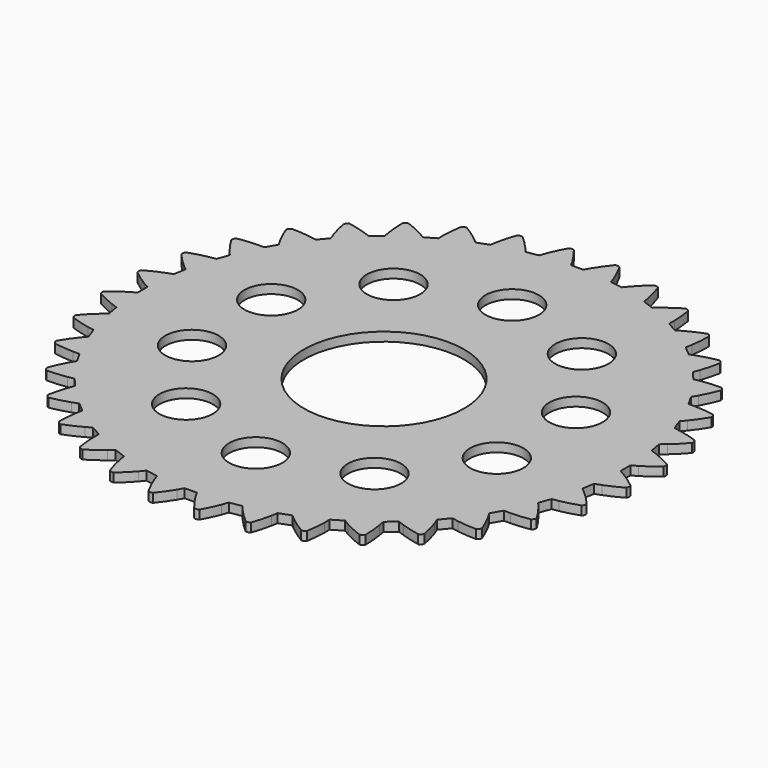
from build123d import *

# Parameters (mm, degrees)
CYLINDER_R         = 4.5
CYLINDER_DEPTH     = 10
EXTRUDE_DEPTH      = 0.5
SKETCH_R           = 1.5
POCKET_DEPTH       = 5
POLARPATTERN_COUNT = 10


with BuildPart() as cylinder:
    # Cylinder → Cylinder (new body)
    with BuildSketch(Plane.XY):
        Circle(CYLINDER_R)
    extrude(amount=CYLINDER_DEPTH)


with BuildPart() as body:
    # InvoluteGear → Extrude (new body)
    with BuildSketch(Plane.XY):
        with BuildLine():
            add(Edge.make_bspline(
                [(14.77486, -1.15665), (14.460427, -0.898823), (14.160679, -0.690927), (13.884618, -0.524332)],
                knots=[0, 0, 0, 0, 1, 1, 1, 1], degree=3))
            add(Edge.make_bspline(
                [(13.884618, -0.524332), (13.774984, -0.458178), (13.669144, -0.398588), (13.567616, -0.344982)],
                knots=[0, 0, 0, 0, 1, 1, 1, 1], degree=3))
            ThreePointArc((13.567616, -0.344982), (13.56323, -1e-06), (13.567615, 0.344981))
            add(Edge.make_bspline(
                [(13.567615, 0.344981), (13.669144, 0.398588), (13.774984, 0.458178), (13.884618, 0.524332)],
                knots=[0, 0, 0, 0, 1, 1, 1, 1], degree=3))
            add(Edge.make_bspline(
                [(13.884618, 0.524332), (14.160679, 0.690927), (14.460427, 0.898823), (14.77486, 1.15665)],
                knots=[0, 0, 0, 0, 1, 1, 1, 1], degree=3))
            ThreePointArc((14.77486, 1.15665), (14.796187, 1.294499), (14.751247, 1.426549))
            add(Edge.make_bspline(
                [(14.751247, 1.426549), (14.39682, 1.625859), (14.065525, 1.778546), (13.764729, 1.894672)],
                knots=[0, 0, 0, 0, 1, 1, 1, 1], degree=3))
            add(Edge.make_bspline(
                [(13.764729, 1.894672), (13.645273, 1.940783), (13.530693, 1.981089), (13.421399, 2.016251)],
                knots=[0, 0, 0, 0, 1, 1, 1, 1], degree=3))
            ThreePointArc((13.421399, 2.016251), (13.357175, 2.35523), (13.301587, 2.695732))
            add(Edge.make_bspline(
                [(13.301587, 2.695732), (13.392265, 2.766155), (13.486149, 2.843218), (13.58263, 2.927405)],
                knots=[0, 0, 0, 0, 1, 1, 1, 1], degree=3))
            add(Edge.make_bspline(
                [(13.58263, 2.927405), (13.825568, 3.139406), (14.084662, 3.396195), (14.349546, 3.704706)],
                knots=[0, 0, 0, 0, 1, 1, 1, 1], degree=3))
            ThreePointArc((14.349546, 3.704706), (14.346612, 3.844163), (14.279424, 3.966404))
            add(Edge.make_bspline(
                [(14.279424, 3.966404), (13.895773, 4.10114), (13.542997, 4.193979), (13.226605, 4.256108)],
                knots=[0, 0, 0, 0, 1, 1, 1, 1], degree=3))
            add(Edge.make_bspline(
                [(13.226605, 4.256108), (13.100957, 4.280775), (12.981119, 4.300572), (12.86738, 4.316221)],
                knots=[0, 0, 0, 0, 1, 1, 1, 1], degree=3))
            ThreePointArc((12.86738, 4.316221), (12.745268, 4.638897), (12.631397, 4.964574))
            add(Edge.make_bspline(
                [(12.631397, 4.964574), (12.708469, 5.049673), (12.787545, 5.141869), (12.867941, 5.24153)],
                knots=[0, 0, 0, 0, 1, 1, 1, 1], degree=3))
            add(Edge.make_bspline(
                [(12.867941, 5.24153), (13.070375, 5.492496), (13.280941, 5.790375), (13.488229, 6.140195)],
                knots=[0, 0, 0, 0, 1, 1, 1, 1], degree=3))
            ThreePointArc((13.488229, 6.140195), (13.461123, 6.277025), (13.373729, 6.385741))
            add(Edge.make_bspline(
                [(13.373729, 6.385741), (12.972509, 6.45181), (12.608971, 6.481979), (12.286598, 6.488224)],
                knots=[0, 0, 0, 0, 1, 1, 1, 1], degree=3))
            add(Edge.make_bspline(
                [(12.286598, 6.488224), (12.158575, 6.490698), (12.03712, 6.489385), (11.922392, 6.485045)],
                knots=[0, 0, 0, 0, 1, 1, 1, 1], degree=3))
            ThreePointArc((11.922392, 6.485045), (11.746102, 6.781615), (11.577409, 7.08257))
            add(Edge.make_bspline(
                [(11.577409, 7.08257), (11.638532, 7.17976), (11.700397, 7.284286), (11.762266, 7.396394)],
                knots=[0, 0, 0, 0, 1, 1, 1, 1], degree=3))
            add(Edge.make_bspline(
                [(11.762266, 7.396394), (11.918044, 7.6787), (12.073686, 8.008617), (12.217079, 8.389118)],
                knots=[0, 0, 0, 0, 1, 1, 1, 1], degree=3))
            ThreePointArc((12.217079, 8.389118), (12.166624, 8.519162), (12.06168, 8.611051))
            add(Edge.make_bspline(
                [(12.06168, 8.611051), (11.655082, 8.606445), (11.291829, 8.573028), (10.973269, 8.523198)],
                knots=[0, 0, 0, 0, 1, 1, 1, 1], degree=3))
            add(Edge.make_bspline(
                [(10.973269, 8.523198), (10.846761, 8.503404), (10.72738, 8.48102), (10.615147, 8.456824)],
                knots=[0, 0, 0, 0, 1, 1, 1, 1], degree=3))
            ThreePointArc((10.615147, 8.456824), (10.390038, 8.718276), (10.171646, 8.985365))
            add(Edge.make_bspline(
                [(10.171646, 8.985365), (10.214964, 9.091693), (10.257739, 9.205374), (10.2992, 9.326522)],
                knots=[0, 0, 0, 0, 1, 1, 1, 1], degree=3))
            add(Edge.make_bspline(
                [(10.2992, 9.326522), (10.40359, 9.63159), (10.499578, 9.983522), (10.574719, 10.383142)],
                knots=[0, 0, 0, 0, 1, 1, 1, 1], degree=3))
            ThreePointArc((10.574719, 10.383142), (10.502449, 10.502449), (10.383142, 10.574719))
            add(Edge.make_bspline(
                [(10.383142, 10.574719), (9.983522, 10.499578), (9.63159, 10.40359), (9.326522, 10.2992)],
                knots=[0, 0, 0, 0, 1, 1, 1, 1], degree=3))
            add(Edge.make_bspline(
                [(9.326522, 10.2992), (9.205374, 10.257739), (9.091693, 10.214964), (8.985367, 10.171647)],
                knots=[0, 0, 0, 0, 1, 1, 1, 1], degree=3))
            ThreePointArc((8.985367, 10.171647), (8.718277, 10.390037), (8.456824, 10.615145))
            add(Edge.make_bspline(
                [(8.456824, 10.615145), (8.48102, 10.72738), (8.503404, 10.846761), (8.523198, 10.973269)],
                knots=[0, 0, 0, 0, 1, 1, 1, 1], degree=3))
            add(Edge.make_bspline(
                [(8.523198, 10.973269), (8.573028, 11.291829), (8.606445, 11.655082), (8.611051, 12.06168)],
                knots=[0, 0, 0, 0, 1, 1, 1, 1], degree=3))
            ThreePointArc((8.611051, 12.06168), (8.519162, 12.166624), (8.389118, 12.217079))
            add(Edge.make_bspline(
                [(8.389118, 12.217079), (8.008617, 12.073686), (7.6787, 11.918044), (7.396394, 11.762266)],
                knots=[0, 0, 0, 0, 1, 1, 1, 1], degree=3))
            add(Edge.make_bspline(
                [(7.396394, 11.762266), (7.284286, 11.700397), (7.17976, 11.638532), (7.082572, 11.577409)],
                knots=[0, 0, 0, 0, 1, 1, 1, 1], degree=3))
            ThreePointArc((7.082572, 11.577409), (6.781616, 11.746102), (6.485045, 11.92239))
            add(Edge.make_bspline(
                [(6.485045, 11.92239), (6.489385, 12.03712), (6.490698, 12.158575), (6.488224, 12.286598)],
                knots=[0, 0, 0, 0, 1, 1, 1, 1], degree=3))
            add(Edge.make_bspline(
                [(6.488224, 12.286598), (6.481979, 12.608971), (6.45181, 12.972509), (6.385741, 13.373729)],
                knots=[0, 0, 0, 0, 1, 1, 1, 1], degree=3))
            ThreePointArc((6.385741, 13.373729), (6.277025, 13.461123), (6.140195, 13.488229))
            add(Edge.make_bspline(
                [(6.140195, 13.488229), (5.790375, 13.280941), (5.492496, 13.070375), (5.24153, 12.867941)],
                knots=[0, 0, 0, 0, 1, 1, 1, 1], degree=3))
            add(Edge.make_bspline(
                [(5.24153, 12.867941), (5.141869, 12.787545), (5.049673, 12.708469), (4.964575, 12.631398)],
                knots=[0, 0, 0, 0, 1, 1, 1, 1], degree=3))
            ThreePointArc((4.964575, 12.631398), (4.638899, 12.745267), (4.316221, 12.867378))
            add(Edge.make_bspline(
                [(4.316221, 12.867378), (4.300572, 12.981119), (4.280775, 13.100957), (4.256108, 13.226605)],
                knots=[0, 0, 0, 0, 1, 1, 1, 1], degree=3))
            add(Edge.make_bspline(
                [(4.256108, 13.226605), (4.193979, 13.542997), (4.10114, 13.895773), (3.966404, 14.279424)],
                knots=[0, 0, 0, 0, 1, 1, 1, 1], degree=3))
            ThreePointArc((3.966404, 14.279424), (3.844163, 14.346612), (3.704706, 14.349546))
            add(Edge.make_bspline(
                [(3.704706, 14.349546), (3.396195, 14.084662), (3.139406, 13.825568), (2.927405, 13.58263)],
                knots=[0, 0, 0, 0, 1, 1, 1, 1], degree=3))
            add(Edge.make_bspline(
                [(2.927405, 13.58263), (2.843218, 13.486149), (2.766155, 13.392265), (2.695733, 13.301588)],
                knots=[0, 0, 0, 0, 1, 1, 1, 1], degree=3))
            ThreePointArc((2.695733, 13.301588), (2.355231, 13.357174), (2.016252, 13.421398))
            add(Edge.make_bspline(
                [(2.016252, 13.421398), (1.981089, 13.530693), (1.940783, 13.645273), (1.894672, 13.764729)],
                knots=[0, 0, 0, 0, 1, 1, 1, 1], degree=3))
            add(Edge.make_bspline(
                [(1.894672, 13.764729), (1.778546, 14.065525), (1.625859, 14.39682), (1.426549, 14.751247)],
                knots=[0, 0, 0, 0, 1, 1, 1, 1], degree=3))
            ThreePointArc((1.426549, 14.751247), (1.294499, 14.796187), (1.15665, 14.77486))
            add(Edge.make_bspline(
                [(1.15665, 14.77486), (0.898823, 14.460427), (0.690927, 14.160679), (0.524332, 13.884618)],
                knots=[0, 0, 0, 0, 1, 1, 1, 1], degree=3))
            add(Edge.make_bspline(
                [(0.524332, 13.884618), (0.458178, 13.774984), (0.398588, 13.669144), (0.344982, 13.567616)],
                knots=[0, 0, 0, 0, 1, 1, 1, 1], degree=3))
            ThreePointArc((0.344982, 13.567616), (1e-06, 13.56323), (-0.344981, 13.567615))
            add(Edge.make_bspline(
                [(-0.344981, 13.567615), (-0.398588, 13.669144), (-0.458178, 13.774984), (-0.524332, 13.884618)],
                knots=[0, 0, 0, 0, 1, 1, 1, 1], degree=3))
            add(Edge.make_bspline(
                [(-0.524332, 13.884618), (-0.690927, 14.160679), (-0.898823, 14.460427), (-1.15665, 14.77486)],
                knots=[0, 0, 0, 0, 1, 1, 1, 1], degree=3))
            ThreePointArc((-1.15665, 14.77486), (-1.294499, 14.796187), (-1.426549, 14.751247))
            add(Edge.make_bspline(
                [(-1.426549, 14.751247), (-1.625859, 14.39682), (-1.778546, 14.065525), (-1.894672, 13.764729)],
                knots=[0, 0, 0, 0, 1, 1, 1, 1], degree=3))
            add(Edge.make_bspline(
                [(-1.894672, 13.764729), (-1.940783, 13.645273), (-1.981089, 13.530693), (-2.016251, 13.421399)],
                knots=[0, 0, 0, 0, 1, 1, 1, 1], degree=3))
            ThreePointArc((-2.016251, 13.421399), (-2.35523, 13.357175), (-2.695732, 13.301587))
            add(Edge.make_bspline(
                [(-2.695732, 13.301587), (-2.766155, 13.392265), (-2.843218, 13.486149), (-2.927405, 13.58263)],
                knots=[0, 0, 0, 0, 1, 1, 1, 1], degree=3))
            add(Edge.make_bspline(
                [(-2.927405, 13.58263), (-3.139406, 13.825568), (-3.396195, 14.084662), (-3.704706, 14.349546)],
                knots=[0, 0, 0, 0, 1, 1, 1, 1], degree=3))
            ThreePointArc((-3.704706, 14.349546), (-3.844163, 14.346612), (-3.966404, 14.279424))
            add(Edge.make_bspline(
                [(-3.966404, 14.279424), (-4.10114, 13.895773), (-4.193979, 13.542997), (-4.256108, 13.226605)],
                knots=[0, 0, 0, 0, 1, 1, 1, 1], degree=3))
            add(Edge.make_bspline(
                [(-4.256108, 13.226605), (-4.280775, 13.100957), (-4.300572, 12.981119), (-4.316221, 12.86738)],
                knots=[0, 0, 0, 0, 1, 1, 1, 1], degree=3))
            ThreePointArc((-4.316221, 12.86738), (-4.638897, 12.745268), (-4.964574, 12.631397))
            add(Edge.make_bspline(
                [(-4.964574, 12.631397), (-5.049673, 12.708469), (-5.141869, 12.787545), (-5.24153, 12.867941)],
                knots=[0, 0, 0, 0, 1, 1, 1, 1], degree=3))
            add(Edge.make_bspline(
                [(-5.24153, 12.867941), (-5.492496, 13.070375), (-5.790375, 13.280941), (-6.140195, 13.488229)],
                knots=[0, 0, 0, 0, 1, 1, 1, 1], degree=3))
            ThreePointArc((-6.140195, 13.488229), (-6.277025, 13.461123), (-6.385741, 13.373729))
            add(Edge.make_bspline(
                [(-6.385741, 13.373729), (-6.45181, 12.972509), (-6.481979, 12.608971), (-6.488224, 12.286598)],
                knots=[0, 0, 0, 0, 1, 1, 1, 1], degree=3))
            add(Edge.make_bspline(
                [(-6.488224, 12.286598), (-6.490698, 12.158575), (-6.489385, 12.03712), (-6.485045, 11.922392)],
                knots=[0, 0, 0, 0, 1, 1, 1, 1], degree=3))
            ThreePointArc((-6.485045, 11.922392), (-6.781615, 11.746102), (-7.08257, 11.577409))
            add(Edge.make_bspline(
                [(-7.08257, 11.577409), (-7.17976, 11.638532), (-7.284286, 11.700397), (-7.396394, 11.762266)],
                knots=[0, 0, 0, 0, 1, 1, 1, 1], degree=3))
            add(Edge.make_bspline(
                [(-7.396394, 11.762266), (-7.6787, 11.918044), (-8.008617, 12.073686), (-8.389118, 12.217079)],
                knots=[0, 0, 0, 0, 1, 1, 1, 1], degree=3))
            ThreePointArc((-8.389118, 12.217079), (-8.519162, 12.166624), (-8.611051, 12.06168))
            add(Edge.make_bspline(
                [(-8.611051, 12.06168), (-8.606445, 11.655082), (-8.573028, 11.291829), (-8.523198, 10.973269)],
                knots=[0, 0, 0, 0, 1, 1, 1, 1], degree=3))
            add(Edge.make_bspline(
                [(-8.523198, 10.973269), (-8.503404, 10.846761), (-8.48102, 10.72738), (-8.456824, 10.615147)],
                knots=[0, 0, 0, 0, 1, 1, 1, 1], degree=3))
            ThreePointArc((-8.456824, 10.615147), (-8.718276, 10.390038), (-8.985365, 10.171646))
            add(Edge.make_bspline(
                [(-8.985365, 10.171646), (-9.091693, 10.214964), (-9.205374, 10.257739), (-9.326522, 10.2992)],
                knots=[0, 0, 0, 0, 1, 1, 1, 1], degree=3))
            add(Edge.make_bspline(
                [(-9.326522, 10.2992), (-9.63159, 10.40359), (-9.983522, 10.499578), (-10.383142, 10.574719)],
                knots=[0, 0, 0, 0, 1, 1, 1, 1], degree=3))
            ThreePointArc((-10.383142, 10.574719), (-10.502449, 10.502449), (-10.574719, 10.383142))
            add(Edge.make_bspline(
                [(-10.574719, 10.383142), (-10.499578, 9.983522), (-10.40359, 9.63159), (-10.2992, 9.326522)],
                knots=[0, 0, 0, 0, 1, 1, 1, 1], degree=3))
            add(Edge.make_bspline(
                [(-10.2992, 9.326522), (-10.257739, 9.205374), (-10.214964, 9.091693), (-10.171647, 8.985367)],
                knots=[0, 0, 0, 0, 1, 1, 1, 1], degree=3))
            ThreePointArc((-10.171647, 8.985367), (-10.390037, 8.718277), (-10.615145, 8.456824))
            add(Edge.make_bspline(
                [(-10.615145, 8.456824), (-10.72738, 8.48102), (-10.846761, 8.503404), (-10.973269, 8.523198)],
                knots=[0, 0, 0, 0, 1, 1, 1, 1], degree=3))
            add(Edge.make_bspline(
                [(-10.973269, 8.523198), (-11.291829, 8.573028), (-11.655082, 8.606445), (-12.06168, 8.611051)],
                knots=[0, 0, 0, 0, 1, 1, 1, 1], degree=3))
            ThreePointArc((-12.06168, 8.611051), (-12.166624, 8.519162), (-12.217079, 8.389118))
            add(Edge.make_bspline(
                [(-12.217079, 8.389118), (-12.073686, 8.008617), (-11.918044, 7.6787), (-11.762266, 7.396394)],
                knots=[0, 0, 0, 0, 1, 1, 1, 1], degree=3))
            add(Edge.make_bspline(
                [(-11.762266, 7.396394), (-11.700397, 7.284286), (-11.638532, 7.17976), (-11.577409, 7.082572)],
                knots=[0, 0, 0, 0, 1, 1, 1, 1], degree=3))
            ThreePointArc((-11.577409, 7.082572), (-11.746102, 6.781616), (-11.92239, 6.485045))
            add(Edge.make_bspline(
                [(-11.92239, 6.485045), (-12.03712, 6.489385), (-12.158575, 6.490698), (-12.286598, 6.488224)],
                knots=[0, 0, 0, 0, 1, 1, 1, 1], degree=3))
            add(Edge.make_bspline(
                [(-12.286598, 6.488224), (-12.608971, 6.481979), (-12.972509, 6.45181), (-13.373729, 6.385741)],
                knots=[0, 0, 0, 0, 1, 1, 1, 1], degree=3))
            ThreePointArc((-13.373729, 6.385741), (-13.461123, 6.277025), (-13.488229, 6.140195))
            add(Edge.make_bspline(
                [(-13.488229, 6.140195), (-13.280941, 5.790375), (-13.070375, 5.492496), (-12.867941, 5.24153)],
                knots=[0, 0, 0, 0, 1, 1, 1, 1], degree=3))
            add(Edge.make_bspline(
                [(-12.867941, 5.24153), (-12.787545, 5.141869), (-12.708469, 5.049673), (-12.631398, 4.964575)],
                knots=[0, 0, 0, 0, 1, 1, 1, 1], degree=3))
            ThreePointArc((-12.631398, 4.964575), (-12.745267, 4.638899), (-12.867378, 4.316221))
            add(Edge.make_bspline(
                [(-12.867378, 4.316221), (-12.981119, 4.300572), (-13.100957, 4.280775), (-13.226605, 4.256108)],
                knots=[0, 0, 0, 0, 1, 1, 1, 1], degree=3))
            add(Edge.make_bspline(
                [(-13.226605, 4.256108), (-13.542997, 4.193979), (-13.895773, 4.10114), (-14.279424, 3.966404)],
                knots=[0, 0, 0, 0, 1, 1, 1, 1], degree=3))
            ThreePointArc((-14.279424, 3.966404), (-14.346612, 3.844163), (-14.349546, 3.704706))
            add(Edge.make_bspline(
                [(-14.349546, 3.704706), (-14.084662, 3.396195), (-13.825568, 3.139406), (-13.58263, 2.927405)],
                knots=[0, 0, 0, 0, 1, 1, 1, 1], degree=3))
            add(Edge.make_bspline(
                [(-13.58263, 2.927405), (-13.486149, 2.843218), (-13.392265, 2.766155), (-13.301588, 2.695733)],
                knots=[0, 0, 0, 0, 1, 1, 1, 1], degree=3))
            ThreePointArc((-13.301588, 2.695733), (-13.357174, 2.355231), (-13.421398, 2.016252))
            add(Edge.make_bspline(
                [(-13.421398, 2.016252), (-13.530693, 1.981089), (-13.645273, 1.940783), (-13.764729, 1.894672)],
                knots=[0, 0, 0, 0, 1, 1, 1, 1], degree=3))
            add(Edge.make_bspline(
                [(-13.764729, 1.894672), (-14.065525, 1.778546), (-14.39682, 1.625859), (-14.751247, 1.426549)],
                knots=[0, 0, 0, 0, 1, 1, 1, 1], degree=3))
            ThreePointArc((-14.751247, 1.426549), (-14.796187, 1.294499), (-14.77486, 1.15665))
            add(Edge.make_bspline(
                [(-14.77486, 1.15665), (-14.460427, 0.898823), (-14.160679, 0.690927), (-13.884618, 0.524332)],
                knots=[0, 0, 0, 0, 1, 1, 1, 1], degree=3))
            add(Edge.make_bspline(
                [(-13.884618, 0.524332), (-13.774984, 0.458178), (-13.669144, 0.398588), (-13.567616, 0.344982)],
                knots=[0, 0, 0, 0, 1, 1, 1, 1], degree=3))
            ThreePointArc((-13.567616, 0.344982), (-13.56323, 1e-06), (-13.567615, -0.344981))
            add(Edge.make_bspline(
                [(-13.567615, -0.344981), (-13.669144, -0.398588), (-13.774984, -0.458178), (-13.884618, -0.524332)],
                knots=[0, 0, 0, 0, 1, 1, 1, 1], degree=3))
            add(Edge.make_bspline(
                [(-13.884618, -0.524332), (-14.160679, -0.690927), (-14.460427, -0.898823), (-14.77486, -1.15665)],
                knots=[0, 0, 0, 0, 1, 1, 1, 1], degree=3))
            ThreePointArc((-14.77486, -1.15665), (-14.796187, -1.294499), (-14.751247, -1.426549))
            add(Edge.make_bspline(
                [(-14.751247, -1.426549), (-14.39682, -1.625859), (-14.065525, -1.778546), (-13.764729, -1.894672)],
                knots=[0, 0, 0, 0, 1, 1, 1, 1], degree=3))
            add(Edge.make_bspline(
                [(-13.764729, -1.894672), (-13.645273, -1.940783), (-13.530693, -1.981089), (-13.421399, -2.016251)],
                knots=[0, 0, 0, 0, 1, 1, 1, 1], degree=3))
            ThreePointArc((-13.421399, -2.016251), (-13.357175, -2.35523), (-13.301587, -2.695732))
            add(Edge.make_bspline(
                [(-13.301587, -2.695732), (-13.392265, -2.766155), (-13.486149, -2.843218), (-13.58263, -2.927405)],
                knots=[0, 0, 0, 0, 1, 1, 1, 1], degree=3))
            add(Edge.make_bspline(
                [(-13.58263, -2.927405), (-13.825568, -3.139406), (-14.084662, -3.396195), (-14.349546, -3.704706)],
                knots=[0, 0, 0, 0, 1, 1, 1, 1], degree=3))
            ThreePointArc((-14.349546, -3.704706), (-14.346612, -3.844163), (-14.279424, -3.966404))
            add(Edge.make_bspline(
                [(-14.279424, -3.966404), (-13.895773, -4.10114), (-13.542997, -4.193979), (-13.226605, -4.256108)],
                knots=[0, 0, 0, 0, 1, 1, 1, 1], degree=3))
            add(Edge.make_bspline(
                [(-13.226605, -4.256108), (-13.100957, -4.280775), (-12.981119, -4.300572), (-12.86738, -4.316221)],
                knots=[0, 0, 0, 0, 1, 1, 1, 1], degree=3))
            ThreePointArc((-12.86738, -4.316221), (-12.745268, -4.638897), (-12.631397, -4.964574))
            add(Edge.make_bspline(
                [(-12.631397, -4.964574), (-12.708469, -5.049673), (-12.787545, -5.141869), (-12.867941, -5.24153)],
                knots=[0, 0, 0, 0, 1, 1, 1, 1], degree=3))
            add(Edge.make_bspline(
                [(-12.867941, -5.24153), (-13.070375, -5.492496), (-13.280941, -5.790375), (-13.488229, -6.140195)],
                knots=[0, 0, 0, 0, 1, 1, 1, 1], degree=3))
            ThreePointArc((-13.488229, -6.140195), (-13.461123, -6.277025), (-13.373729, -6.385741))
            add(Edge.make_bspline(
                [(-13.373729, -6.385741), (-12.972509, -6.45181), (-12.608971, -6.481979), (-12.286598, -6.488224)],
                knots=[0, 0, 0, 0, 1, 1, 1, 1], degree=3))
            add(Edge.make_bspline(
                [(-12.286598, -6.488224), (-12.158575, -6.490698), (-12.03712, -6.489385), (-11.922392, -6.485045)],
                knots=[0, 0, 0, 0, 1, 1, 1, 1], degree=3))
            ThreePointArc((-11.922392, -6.485045), (-11.746102, -6.781615), (-11.577409, -7.08257))
            add(Edge.make_bspline(
                [(-11.577409, -7.08257), (-11.638532, -7.17976), (-11.700397, -7.284286), (-11.762266, -7.396394)],
                knots=[0, 0, 0, 0, 1, 1, 1, 1], degree=3))
            add(Edge.make_bspline(
                [(-11.762266, -7.396394), (-11.918044, -7.6787), (-12.073686, -8.008617), (-12.217079, -8.389118)],
                knots=[0, 0, 0, 0, 1, 1, 1, 1], degree=3))
            ThreePointArc((-12.217079, -8.389118), (-12.166624, -8.519162), (-12.06168, -8.611051))
            add(Edge.make_bspline(
                [(-12.06168, -8.611051), (-11.655082, -8.606445), (-11.291829, -8.573028), (-10.973269, -8.523198)],
                knots=[0, 0, 0, 0, 1, 1, 1, 1], degree=3))
            add(Edge.make_bspline(
                [(-10.973269, -8.523198), (-10.846761, -8.503404), (-10.72738, -8.48102), (-10.615147, -8.456824)],
                knots=[0, 0, 0, 0, 1, 1, 1, 1], degree=3))
            ThreePointArc((-10.615147, -8.456824), (-10.390038, -8.718276), (-10.171646, -8.985365))
            add(Edge.make_bspline(
                [(-10.171646, -8.985365), (-10.214964, -9.091693), (-10.257739, -9.205374), (-10.2992, -9.326522)],
                knots=[0, 0, 0, 0, 1, 1, 1, 1], degree=3))
            add(Edge.make_bspline(
                [(-10.2992, -9.326522), (-10.40359, -9.63159), (-10.499578, -9.983522), (-10.574719, -10.383142)],
                knots=[0, 0, 0, 0, 1, 1, 1, 1], degree=3))
            ThreePointArc((-10.574719, -10.383142), (-10.502449, -10.502449), (-10.383142, -10.574719))
            add(Edge.make_bspline(
                [(-10.383142, -10.574719), (-9.983522, -10.499578), (-9.63159, -10.40359), (-9.326522, -10.2992)],
                knots=[0, 0, 0, 0, 1, 1, 1, 1], degree=3))
            add(Edge.make_bspline(
                [(-9.326522, -10.2992), (-9.205374, -10.257739), (-9.091693, -10.214964), (-8.985367, -10.171647)],
                knots=[0, 0, 0, 0, 1, 1, 1, 1], degree=3))
            ThreePointArc((-8.985367, -10.171647), (-8.718277, -10.390037), (-8.456824, -10.615145))
            add(Edge.make_bspline(
                [(-8.456824, -10.615145), (-8.48102, -10.72738), (-8.503404, -10.846761), (-8.523198, -10.973269)],
                knots=[0, 0, 0, 0, 1, 1, 1, 1], degree=3))
            add(Edge.make_bspline(
                [(-8.523198, -10.973269), (-8.573028, -11.291829), (-8.606445, -11.655082), (-8.611051, -12.06168)],
                knots=[0, 0, 0, 0, 1, 1, 1, 1], degree=3))
            ThreePointArc((-8.611051, -12.06168), (-8.519162, -12.166624), (-8.389118, -12.217079))
            add(Edge.make_bspline(
                [(-8.389118, -12.217079), (-8.008617, -12.073686), (-7.6787, -11.918044), (-7.396394, -11.762266)],
                knots=[0, 0, 0, 0, 1, 1, 1, 1], degree=3))
            add(Edge.make_bspline(
                [(-7.396394, -11.762266), (-7.284286, -11.700397), (-7.17976, -11.638532), (-7.082572, -11.577409)],
                knots=[0, 0, 0, 0, 1, 1, 1, 1], degree=3))
            ThreePointArc((-7.082572, -11.577409), (-6.781616, -11.746102), (-6.485045, -11.92239))
            add(Edge.make_bspline(
                [(-6.485045, -11.92239), (-6.489385, -12.03712), (-6.490698, -12.158575), (-6.488224, -12.286598)],
                knots=[0, 0, 0, 0, 1, 1, 1, 1], degree=3))
            add(Edge.make_bspline(
                [(-6.488224, -12.286598), (-6.481979, -12.608971), (-6.45181, -12.972509), (-6.385741, -13.373729)],
                knots=[0, 0, 0, 0, 1, 1, 1, 1], degree=3))
            ThreePointArc((-6.385741, -13.373729), (-6.277025, -13.461123), (-6.140195, -13.488229))
            add(Edge.make_bspline(
                [(-6.140195, -13.488229), (-5.790375, -13.280941), (-5.492496, -13.070375), (-5.24153, -12.867941)],
                knots=[0, 0, 0, 0, 1, 1, 1, 1], degree=3))
            add(Edge.make_bspline(
                [(-5.24153, -12.867941), (-5.141869, -12.787545), (-5.049673, -12.708469), (-4.964575, -12.631398)],
                knots=[0, 0, 0, 0, 1, 1, 1, 1], degree=3))
            ThreePointArc((-4.964575, -12.631398), (-4.638899, -12.745267), (-4.316221, -12.867378))
            add(Edge.make_bspline(
                [(-4.316221, -12.867378), (-4.300572, -12.981119), (-4.280775, -13.100957), (-4.256108, -13.226605)],
                knots=[0, 0, 0, 0, 1, 1, 1, 1], degree=3))
            add(Edge.make_bspline(
                [(-4.256108, -13.226605), (-4.193979, -13.542997), (-4.10114, -13.895773), (-3.966404, -14.279424)],
                knots=[0, 0, 0, 0, 1, 1, 1, 1], degree=3))
            ThreePointArc((-3.966404, -14.279424), (-3.844163, -14.346612), (-3.704706, -14.349546))
            add(Edge.make_bspline(
                [(-3.704706, -14.349546), (-3.396195, -14.084662), (-3.139406, -13.825568), (-2.927405, -13.58263)],
                knots=[0, 0, 0, 0, 1, 1, 1, 1], degree=3))
            add(Edge.make_bspline(
                [(-2.927405, -13.58263), (-2.843218, -13.486149), (-2.766155, -13.392265), (-2.695733, -13.301588)],
                knots=[0, 0, 0, 0, 1, 1, 1, 1], degree=3))
            ThreePointArc((-2.695733, -13.301588), (-2.355231, -13.357174), (-2.016252, -13.421398))
            add(Edge.make_bspline(
                [(-2.016252, -13.421398), (-1.981089, -13.530693), (-1.940783, -13.645273), (-1.894672, -13.764729)],
                knots=[0, 0, 0, 0, 1, 1, 1, 1], degree=3))
            add(Edge.make_bspline(
                [(-1.894672, -13.764729), (-1.778546, -14.065525), (-1.625859, -14.39682), (-1.426549, -14.751247)],
                knots=[0, 0, 0, 0, 1, 1, 1, 1], degree=3))
            ThreePointArc((-1.426549, -14.751247), (-1.294499, -14.796187), (-1.15665, -14.77486))
            add(Edge.make_bspline(
                [(-1.15665, -14.77486), (-0.898823, -14.460427), (-0.690927, -14.160679), (-0.524332, -13.884618)],
                knots=[0, 0, 0, 0, 1, 1, 1, 1], degree=3))
            add(Edge.make_bspline(
                [(-0.524332, -13.884618), (-0.458178, -13.774984), (-0.398588, -13.669144), (-0.344982, -13.567616)],
                knots=[0, 0, 0, 0, 1, 1, 1, 1], degree=3))
            ThreePointArc((-0.344982, -13.567616), (-1e-06, -13.56323), (0.344981, -13.567615))
            add(Edge.make_bspline(
                [(0.344981, -13.567615), (0.398588, -13.669144), (0.458178, -13.774984), (0.524332, -13.884618)],
                knots=[0, 0, 0, 0, 1, 1, 1, 1], degree=3))
            add(Edge.make_bspline(
                [(0.524332, -13.884618), (0.690927, -14.160679), (0.898823, -14.460427), (1.15665, -14.77486)],
                knots=[0, 0, 0, 0, 1, 1, 1, 1], degree=3))
            ThreePointArc((1.15665, -14.77486), (1.294499, -14.796187), (1.426549, -14.751247))
            add(Edge.make_bspline(
                [(1.426549, -14.751247), (1.625859, -14.39682), (1.778546, -14.065525), (1.894672, -13.764729)],
                knots=[0, 0, 0, 0, 1, 1, 1, 1], degree=3))
            add(Edge.make_bspline(
                [(1.894672, -13.764729), (1.940783, -13.645273), (1.981089, -13.530693), (2.016251, -13.421399)],
                knots=[0, 0, 0, 0, 1, 1, 1, 1], degree=3))
            ThreePointArc((2.016251, -13.421399), (2.35523, -13.357175), (2.695732, -13.301587))
            add(Edge.make_bspline(
                [(2.695732, -13.301587), (2.766155, -13.392265), (2.843218, -13.486149), (2.927405, -13.58263)],
                knots=[0, 0, 0, 0, 1, 1, 1, 1], degree=3))
            add(Edge.make_bspline(
                [(2.927405, -13.58263), (3.139406, -13.825568), (3.396195, -14.084662), (3.704706, -14.349546)],
                knots=[0, 0, 0, 0, 1, 1, 1, 1], degree=3))
            ThreePointArc((3.704706, -14.349546), (3.844163, -14.346612), (3.966404, -14.279424))
            add(Edge.make_bspline(
                [(3.966404, -14.279424), (4.10114, -13.895773), (4.193979, -13.542997), (4.256108, -13.226605)],
                knots=[0, 0, 0, 0, 1, 1, 1, 1], degree=3))
            add(Edge.make_bspline(
                [(4.256108, -13.226605), (4.280775, -13.100957), (4.300572, -12.981119), (4.316221, -12.86738)],
                knots=[0, 0, 0, 0, 1, 1, 1, 1], degree=3))
            ThreePointArc((4.316221, -12.86738), (4.638897, -12.745268), (4.964574, -12.631397))
            add(Edge.make_bspline(
                [(4.964574, -12.631397), (5.049673, -12.708469), (5.141869, -12.787545), (5.24153, -12.867941)],
                knots=[0, 0, 0, 0, 1, 1, 1, 1], degree=3))
            add(Edge.make_bspline(
                [(5.24153, -12.867941), (5.492496, -13.070375), (5.790375, -13.280941), (6.140195, -13.488229)],
                knots=[0, 0, 0, 0, 1, 1, 1, 1], degree=3))
            ThreePointArc((6.140195, -13.488229), (6.277025, -13.461123), (6.385741, -13.373729))
            add(Edge.make_bspline(
                [(6.385741, -13.373729), (6.45181, -12.972509), (6.481979, -12.608971), (6.488224, -12.286598)],
                knots=[0, 0, 0, 0, 1, 1, 1, 1], degree=3))
            add(Edge.make_bspline(
                [(6.488224, -12.286598), (6.490698, -12.158575), (6.489385, -12.03712), (6.485045, -11.922392)],
                knots=[0, 0, 0, 0, 1, 1, 1, 1], degree=3))
            ThreePointArc((6.485045, -11.922392), (6.781615, -11.746102), (7.08257, -11.577409))
            add(Edge.make_bspline(
                [(7.08257, -11.577409), (7.17976, -11.638532), (7.284286, -11.700397), (7.396394, -11.762266)],
                knots=[0, 0, 0, 0, 1, 1, 1, 1], degree=3))
            add(Edge.make_bspline(
                [(7.396394, -11.762266), (7.6787, -11.918044), (8.008617, -12.073686), (8.389118, -12.217079)],
                knots=[0, 0, 0, 0, 1, 1, 1, 1], degree=3))
            ThreePointArc((8.389118, -12.217079), (8.519162, -12.166624), (8.611051, -12.06168))
            add(Edge.make_bspline(
                [(8.611051, -12.06168), (8.606445, -11.655082), (8.573028, -11.291829), (8.523198, -10.973269)],
                knots=[0, 0, 0, 0, 1, 1, 1, 1], degree=3))
            add(Edge.make_bspline(
                [(8.523198, -10.973269), (8.503404, -10.846761), (8.48102, -10.72738), (8.456824, -10.615147)],
                knots=[0, 0, 0, 0, 1, 1, 1, 1], degree=3))
            ThreePointArc((8.456824, -10.615147), (8.718276, -10.390038), (8.985365, -10.171646))
            add(Edge.make_bspline(
                [(8.985365, -10.171646), (9.091693, -10.214964), (9.205374, -10.257739), (9.326522, -10.2992)],
                knots=[0, 0, 0, 0, 1, 1, 1, 1], degree=3))
            add(Edge.make_bspline(
                [(9.326522, -10.2992), (9.63159, -10.40359), (9.983522, -10.499578), (10.383142, -10.574719)],
                knots=[0, 0, 0, 0, 1, 1, 1, 1], degree=3))
            ThreePointArc((10.383142, -10.574719), (10.502449, -10.502449), (10.574719, -10.383142))
            add(Edge.make_bspline(
                [(10.574719, -10.383142), (10.499578, -9.983522), (10.40359, -9.63159), (10.2992, -9.326522)],
                knots=[0, 0, 0, 0, 1, 1, 1, 1], degree=3))
            add(Edge.make_bspline(
                [(10.2992, -9.326522), (10.257739, -9.205374), (10.214964, -9.091693), (10.171647, -8.985367)],
                knots=[0, 0, 0, 0, 1, 1, 1, 1], degree=3))
            ThreePointArc((10.171647, -8.985367), (10.390037, -8.718277), (10.615145, -8.456824))
            add(Edge.make_bspline(
                [(10.615145, -8.456824), (10.72738, -8.48102), (10.846761, -8.503404), (10.973269, -8.523198)],
                knots=[0, 0, 0, 0, 1, 1, 1, 1], degree=3))
            add(Edge.make_bspline(
                [(10.973269, -8.523198), (11.291829, -8.573028), (11.655082, -8.606445), (12.06168, -8.611051)],
                knots=[0, 0, 0, 0, 1, 1, 1, 1], degree=3))
            ThreePointArc((12.06168, -8.611051), (12.166624, -8.519162), (12.217079, -8.389118))
            add(Edge.make_bspline(
                [(12.217079, -8.389118), (12.073686, -8.008617), (11.918044, -7.6787), (11.762266, -7.396394)],
                knots=[0, 0, 0, 0, 1, 1, 1, 1], degree=3))
            add(Edge.make_bspline(
                [(11.762266, -7.396394), (11.700397, -7.284286), (11.638532, -7.17976), (11.577409, -7.082572)],
                knots=[0, 0, 0, 0, 1, 1, 1, 1], degree=3))
            ThreePointArc((11.577409, -7.082572), (11.746102, -6.781616), (11.92239, -6.485045))
            add(Edge.make_bspline(
                [(11.92239, -6.485045), (12.03712, -6.489385), (12.158575, -6.490698), (12.286598, -6.488224)],
                knots=[0, 0, 0, 0, 1, 1, 1, 1], degree=3))
            add(Edge.make_bspline(
                [(12.286598, -6.488224), (12.608971, -6.481979), (12.972509, -6.45181), (13.373729, -6.385741)],
                knots=[0, 0, 0, 0, 1, 1, 1, 1], degree=3))
            ThreePointArc((13.373729, -6.385741), (13.461123, -6.277025), (13.488229, -6.140195))
            add(Edge.make_bspline(
                [(13.488229, -6.140195), (13.280941, -5.790375), (13.070375, -5.492496), (12.867941, -5.24153)],
                knots=[0, 0, 0, 0, 1, 1, 1, 1], degree=3))
            add(Edge.make_bspline(
                [(12.867941, -5.24153), (12.787545, -5.141869), (12.708469, -5.049673), (12.631398, -4.964575)],
                knots=[0, 0, 0, 0, 1, 1, 1, 1], degree=3))
            ThreePointArc((12.631398, -4.964575), (12.745267, -4.638899), (12.867378, -4.316221))
            add(Edge.make_bspline(
                [(12.867378, -4.316221), (12.981119, -4.300572), (13.100957, -4.280775), (13.226605, -4.256108)],
                knots=[0, 0, 0, 0, 1, 1, 1, 1], degree=3))
            add(Edge.make_bspline(
                [(13.226605, -4.256108), (13.542997, -4.193979), (13.895773, -4.10114), (14.279424, -3.966404)],
                knots=[0, 0, 0, 0, 1, 1, 1, 1], degree=3))
            ThreePointArc((14.279424, -3.966404), (14.346612, -3.844163), (14.349546, -3.704706))
            add(Edge.make_bspline(
                [(14.349546, -3.704706), (14.084662, -3.396195), (13.825568, -3.139406), (13.58263, -2.927405)],
                knots=[0, 0, 0, 0, 1, 1, 1, 1], degree=3))
            add(Edge.make_bspline(
                [(13.58263, -2.927405), (13.486149, -2.843218), (13.392265, -2.766155), (13.301588, -2.695733)],
                knots=[0, 0, 0, 0, 1, 1, 1, 1], degree=3))
            ThreePointArc((13.301588, -2.695733), (13.357174, -2.355231), (13.421398, -2.016252))
            add(Edge.make_bspline(
                [(13.421398, -2.016252), (13.530693, -1.981089), (13.645273, -1.940783), (13.764729, -1.894672)],
                knots=[0, 0, 0, 0, 1, 1, 1, 1], degree=3))
            add(Edge.make_bspline(
                [(13.764729, -1.894672), (14.065525, -1.778546), (14.39682, -1.625859), (14.751247, -1.426549)],
                knots=[0, 0, 0, 0, 1, 1, 1, 1], degree=3))
            ThreePointArc((14.751247, -1.426549), (14.796187, -1.294499), (14.77486, -1.15665))
        make_face()
    extrude(amount=EXTRUDE_DEPTH)

    # Cut: cut Cylinder
    add(cylinder.part, mode=Mode.SUBTRACT)

    # Sketch (on Face5 of BaseFeature) → Pocket (cut)
    with BuildSketch(Plane.XY.offset(0.5)):
        with Locations((0, 9)):
            Circle(SKETCH_R)
    pocket = extrude(amount=-POCKET_DEPTH, mode=Mode.SUBTRACT)

    # PolarPattern: Pocket ×10 about axis
    polarpattern_axis = Axis((0, 0, 0.5), (0, 0, 1))
    for i in range(1, POLARPATTERN_COUNT):
        add(pocket.rotate(polarpattern_axis, i * 360 / POLARPATTERN_COUNT), mode=Mode.SUBTRACT)


solid = body.part
